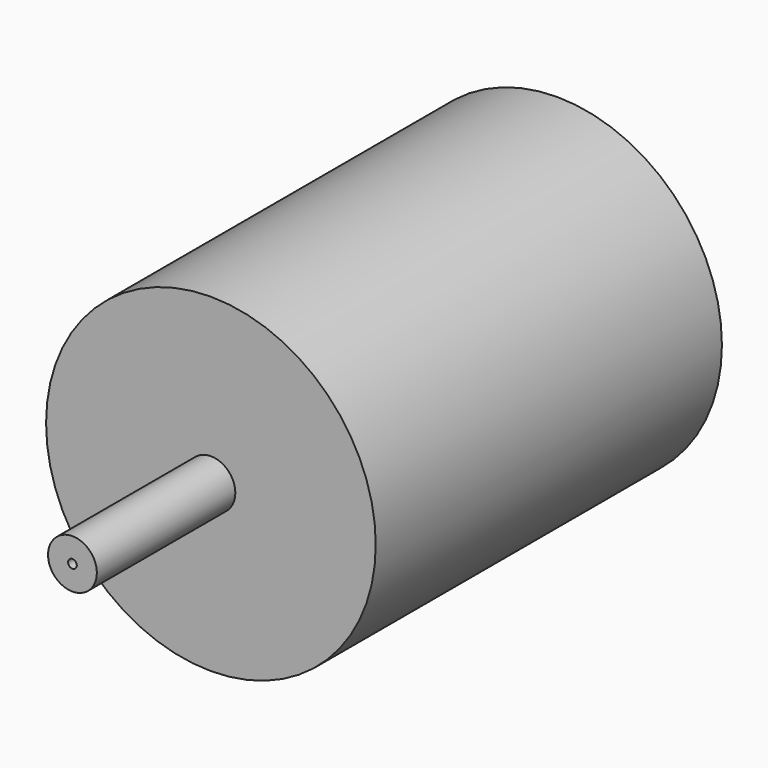
from build123d import *

# Parameters (mm, degrees)
F0_R     = 95.2277676599
F1_DEPTH = 50
F2_R     = 14.1001536821
F3_DEPTH = 100
F4_DEPTH = 200
F6_D     = 5


with BuildPart() as f1:
    # F0 (on Front) → F1 (new body)
    with BuildSketch(Plane.XZ):
        Circle(F0_R)
    extrude(amount=F1_DEPTH)

    # F2 (on face) → F3 (join)
    with BuildSketch(Plane.XZ.offset(50)):
        Circle(F2_R)
    extrude(amount=F3_DEPTH)

    # F4 (add): a face of the model
    f4_faces = [f1.faces().sort_by_distance(p)[0] for p in [
        (0, 0, 0),
    ]]
    extrude(f4_faces, amount=F4_DEPTH)

    # F6 (through all)
    with Locations(Plane.XZ.offset(150)):
        with Locations((0, 0)):
            Hole(F6_D / 2)


solid = f1.part
